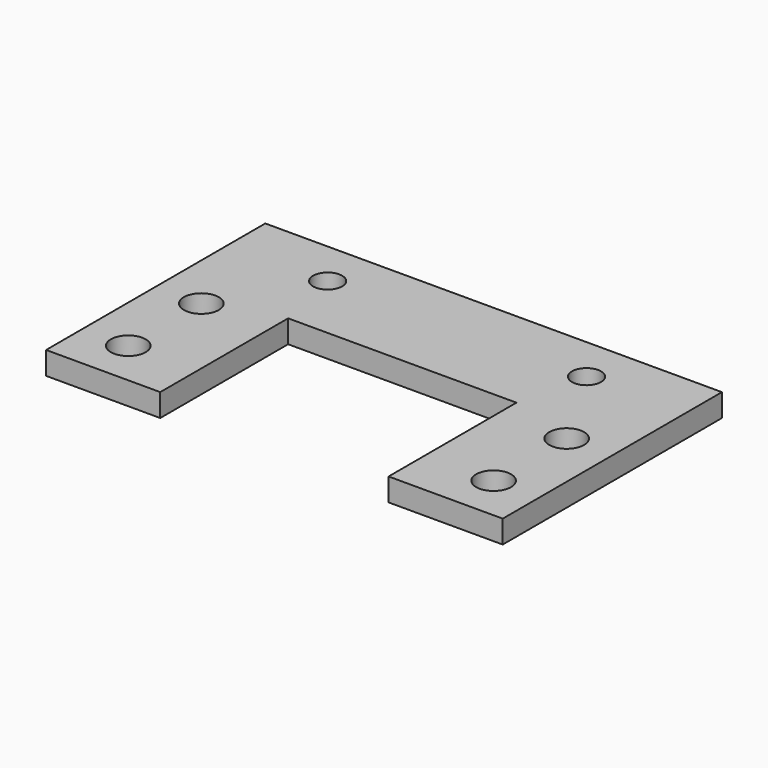
from build123d import *

# Parameters (mm, degrees)
F0_W     = 63.5
F0_H     = 38.1
F0_R     = 2.4257
F0_R_2   = 2.0193
F1_DEPTH = 3.175
F2_W     = 31.75
F2_H     = 22.225
F3_DEPTH = 3.176


with BuildPart() as f1:
    # F0 (on Top) → F1 (new body)
    with BuildSketch(Plane.XY):
        Rectangle(F0_W, F0_H)
        with Locations((-25.4, -12.7)):
            Circle(F0_R, mode=Mode.SUBTRACT)
        with Locations((25.4, -12.7)):
            Circle(F0_R, mode=Mode.SUBTRACT)
        with Locations((-25.4, 0)):
            Circle(F0_R, mode=Mode.SUBTRACT)
        with Locations((-18, 12.7)):
            Circle(F0_R_2, mode=Mode.SUBTRACT)
        with Locations((25.4, 0)):
            Circle(F0_R, mode=Mode.SUBTRACT)
        with Locations((18, 12.7)):
            Circle(F0_R_2, mode=Mode.SUBTRACT)
    extrude(amount=F1_DEPTH)

    # F2 (on face) → F3 (cut, through all)
    with BuildSketch(Plane.XY.offset(3.175)):
        with Locations((0, -7.9375)):
            Rectangle(F2_W, F2_H)
    extrude(amount=-F3_DEPTH, mode=Mode.SUBTRACT)


solid = f1.part
